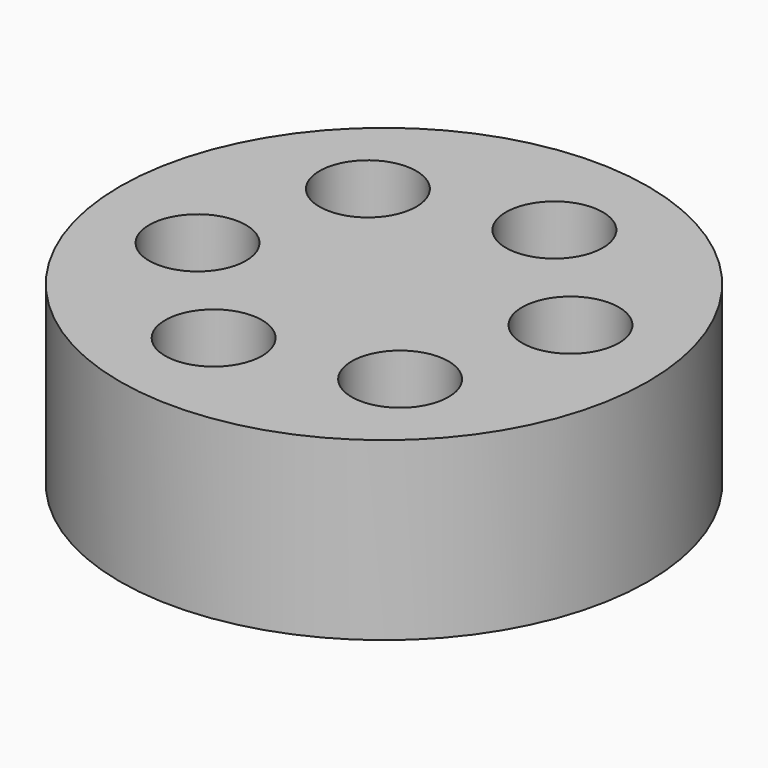
from build123d import *

# Parameters (mm, degrees)
F0_R     = 3
F2_DEPTH = 2
F1_R     = 0.55
F3_DEPTH = 2


with BuildPart() as f2:
    # F0 (on Top) → F2 (new body)
    with BuildSketch(Plane.XY):
        Circle(F0_R)
    extrude(amount=F2_DEPTH)

    # F1 (on Top) → F3 (cut)
    with BuildSketch(Plane.XY):
        with Locations((-1.253134, 1.337733)):
            Circle(F1_R)
        with Locations((-1.785078, -0.416379)):
            Circle(F1_R)
        with Locations((-0.531944, -1.754112)):
            Circle(F1_R)
        with Locations((1.253134, -1.337733)):
            Circle(F1_R)
        with Locations((1.785078, 0.416379)):
            Circle(F1_R)
        with Locations((0.531944, 1.754112)):
            Circle(F1_R)
    extrude(amount=F3_DEPTH, mode=Mode.SUBTRACT)


solid = f2.part
